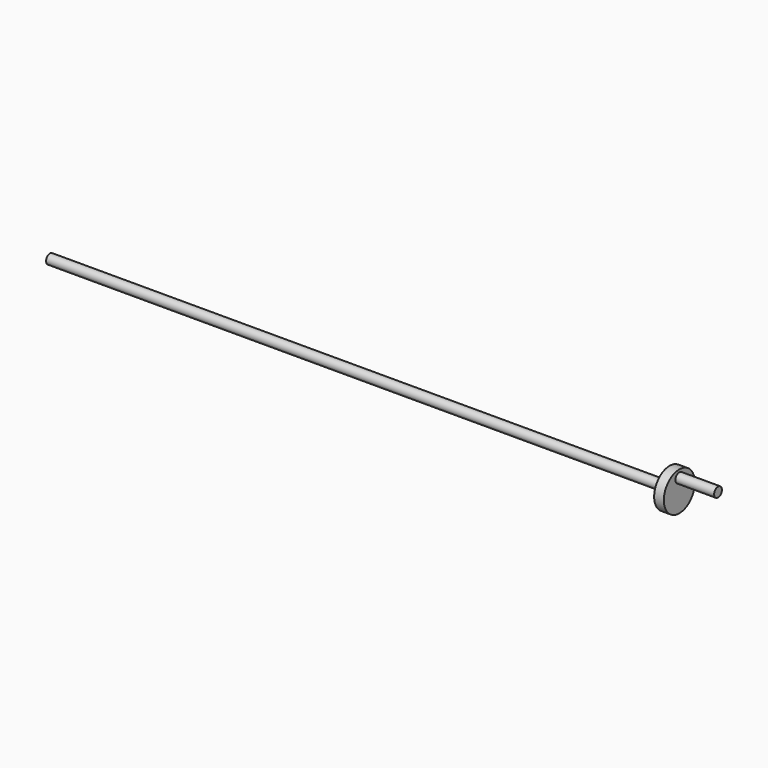
from build123d import *

# Parameters (mm, degrees)
F0_R     = 3.175
F1_DEPTH = 203.2
F2_R     = 12.7
F3_DEPTH = 6.35
F4_R     = 3.175
F5_DEPTH = 25.4


with BuildPart() as f1:
    # F0 (on Right) → F1 (new body, symmetric)
    with BuildSketch(Plane.YZ):
        Circle(F0_R)
    extrude(amount=F1_DEPTH, both=True)

    # F2 (on face) → F3 (join)
    with BuildSketch(Plane.YZ.offset(203.2)):
        Circle(F2_R)
    extrude(amount=F3_DEPTH)

    # F4 (on face) → F5 (join)
    with BuildSketch(Plane.YZ.offset(209.55)):
        with Locations((0, 7.846299)):
            Circle(F4_R)
    extrude(amount=F5_DEPTH)


solid = f1.part
